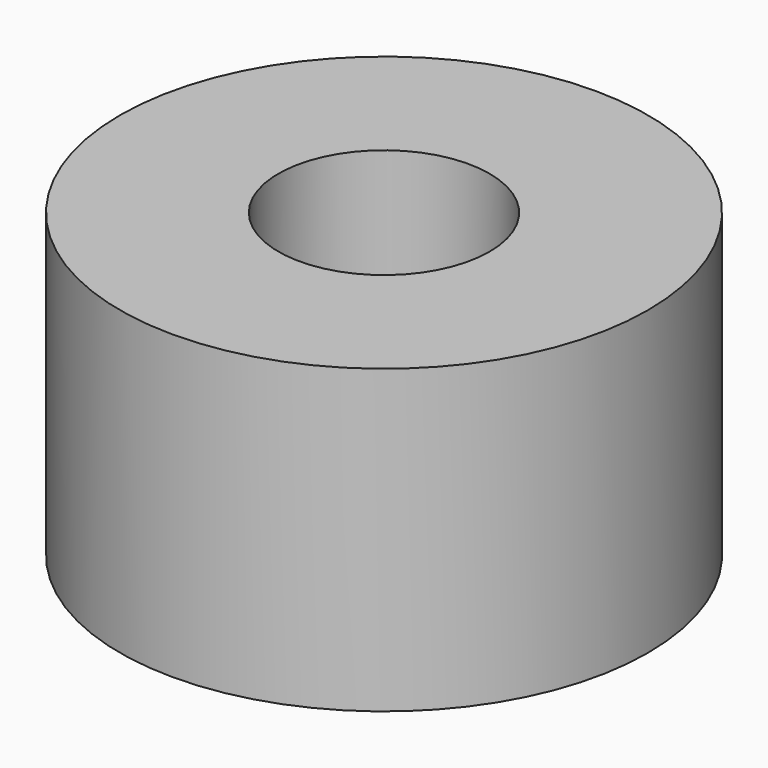
from build123d import *

# Parameters (mm, degrees)
CYLINDER014_R     = 1.4
CYLINDER014_DEPTH = 4
CYLINDER015_R     = 3.5
CYLINDER015_DEPTH = 4


with BuildPart() as cylinder014:
    # Cylinder014 → Cylinder014 (new body)
    with BuildSketch(Plane.XY):
        Circle(CYLINDER014_R)
    extrude(amount=CYLINDER014_DEPTH)


with BuildPart() as m2p5_spacer:
    # Cylinder015 → Cylinder015 (new body)
    with BuildSketch(Plane.XY):
        Circle(CYLINDER015_R)
    extrude(amount=CYLINDER015_DEPTH)

    # Cut011: cut Cylinder014
    add(cylinder014.part, mode=Mode.SUBTRACT)


solid = m2p5_spacer.part
